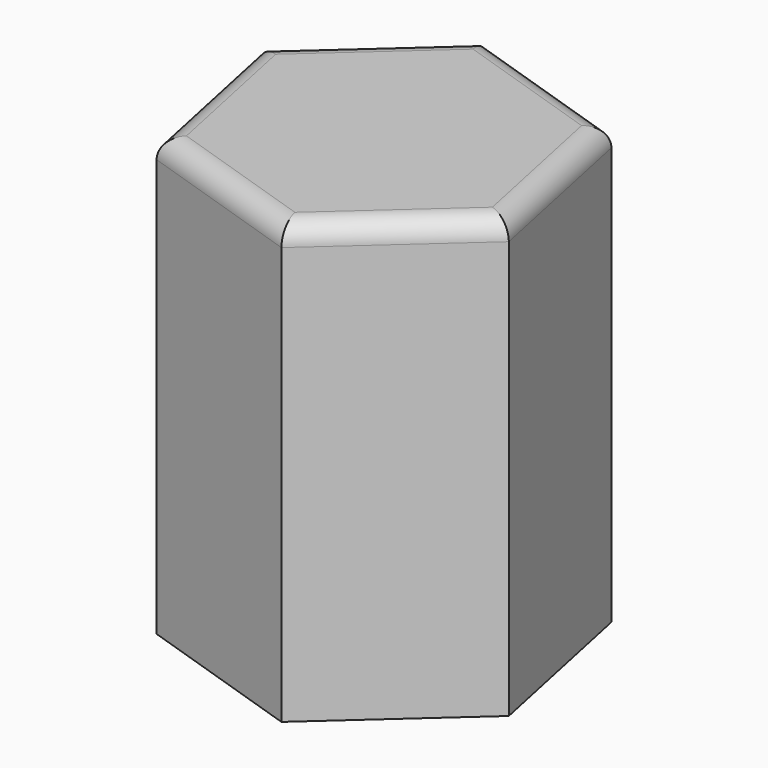
from build123d import *

# Parameters (mm, degrees)
F1_DEPTH = 109.982
F2_R     = 5.08


with BuildPart() as f1:
    # F0 (on Top) → F1 (new body)
    with BuildSketch(Plane.XY):
        Polygon((9.205793, -43.722597), (42.467777, -13.888848), (33.261984, 29.833749), (-9.205793, 43.722597), (-42.467777, 13.888848), (-33.261984, -29.833749), align=None)
    extrude(amount=F1_DEPTH)

    # F2
    f2_edges = [f1.edges().sort_by_distance(p)[0] for p in [
        (-12.028095, -36.778173, 109.982),
        (25.836785, -28.805723, 109.982),
        (37.86488, 7.972451, 109.982),
        (12.028095, 36.778173, 109.982),
        (-25.836785, 28.805723, 109.982),
        (-37.86488, -7.972451, 109.982),
    ]]
    fillet(f2_edges, radius=F2_R)


solid = f1.part
